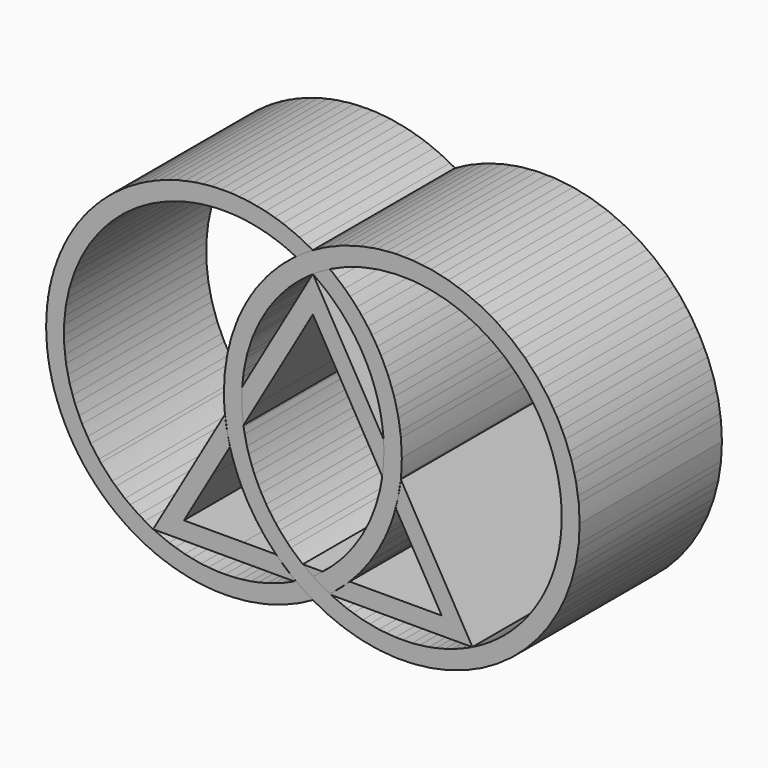
from build123d import *

# Parameters (mm, degrees)
F1_DEPTH = 10
F2_R     = 10
F2_R_2   = 9
F3_DEPTH = 10
F4_R     = 10
F4_R_2   = 9
F5_DEPTH = 10


with BuildPart() as f1:
    # F0 (on Front) → F1 (new body)
    with BuildSketch(Plane.XZ):
        with BuildLine():
            ThreePointArc((0, 8.6602540378), (0.4838541491, 8.3622570919), (0.95, 8.0372569948))
            ThreePointArc((0.95, 8.0372569948), (9.7196398168, 7.6632238647), (14, 0))
            ThreePointArc((14, 0), (12.6424014311, -4.7532831144), (8.9791776966, -8.0725550391))
            ThreePointArc((8.9791776966, -8.0725550391), (4.9997397328, -8.9999999962), (1.0203554164, -8.0723248813))
            Line((1.0203554164, -8.0723248813), (0.9023407315, -8.0723214684))
            ThreePointArc((0.9023407315, -8.0723214684), (0.4590909988, -8.3784440958), (0, -8.6602540378))
            ThreePointArc((0, -8.6602540378), (10, -8.6602540378), (15, 0))
            ThreePointArc((15, 0), (10, 8.6602540378), (0, 8.6602540378))
        make_face()
    extrude(amount=F1_DEPTH)


with BuildPart() as f1b:
    # F0 (on Front) → F1, piece 2 (new body)
    with BuildSketch(Plane.XZ):
        with BuildLine():
            ThreePointArc((-8.9802311497, -8.0720356785), (-13.054721878, 4.015153231), (-0.95, 8.0372569948))
            ThreePointArc((-0.95, 8.0372569948), (-0.4838541491, 8.3622570919), (0, 8.6602540378))
            ThreePointArc((0, 8.6602540378), (-15, 0), (0, -8.6602540378))
            ThreePointArc((0, -8.6602540378), (-0.4591280413, -8.3784199602), (-0.9024121095, -8.0722692775))
            Line((-0.9024121095, -8.0722692775), (-1.0202357206, -8.0722658703))
            ThreePointArc((-1.0202357206, -8.0722658703), (-5.0002602672, -8.9999999962), (-8.9802311497, -8.0720356785))
        make_face()
    extrude(amount=F1_DEPTH)


with BuildPart() as f1c:
    # F0 (on Front) → F1, piece 3 (new body)
    with BuildSketch(Plane.XZ):
        with BuildLine():
            Line((-5.6211760394, -4.2536667951), (-4.6593928686, -2.5876880434))
            ThreePointArc((-4.6593928686, -2.5876880434), (-4.8296923359, -1.8377019841), (-4.9418510408, -1.0768462669))
            Line((-4.9418510408, -1.0768462669), (-8.9802311497, -8.0720356785))
            Line((-8.9802311497, -8.0720356785), (-1.0202357206, -8.0722658703))
            ThreePointArc((-1.0202357206, -8.0722658703), (-0.9850797018, -8.0548379871), (-0.95, -8.0372569948))
            ThreePointArc((-0.95, -8.0372569948), (-1.5280203219, -7.5752855178), (-2.0702980916, -7.0718374484))
            Line((-2.0702980916, -7.0718374484), (-3.9045057144, -7.0717844057))
            Line((-3.9045057144, -7.0717844057), (-7.2480984047, -7.0717844057))
            Line((-7.2480984047, -7.0717844057), (-5.6211760394, -4.2536667951))
        make_face()
    extrude(amount=F1_DEPTH)


with BuildPart() as f1d:
    # F0 (on Front) → F1, piece 4 (new body)
    with BuildSketch(Plane.XZ):
        with BuildLine():
            Line((-4, 0), (-3.1654993788, 0))
            Line((-3.1654993788, 0), (-6.52584e-05, 5.4830923897))
            Line((-6.52584e-05, 5.4830923897), (3.1648918599, 0))
            Line((3.1648918599, 0), (4, 0))
            ThreePointArc((4, 0), (3.9952123452, 0.2935214892), (3.9808544745, 0.5867306941))
            Line((3.9808544745, 0.5867306941), (0, 7.4833147735))
            Line((0, 7.4833147735), (-3.9807778283, 0.5879027113))
            ThreePointArc((-3.9807778283, 0.5879027113), (-3.9951931734, 0.2941084365), (-4, 0))
        make_face()
        with BuildLine():
            Line((-3.9077024465, -1.2856271329), (-3.1654993788, 0))
            Line((-3.1654993788, 0), (-4, 0))
            ThreePointArc((-4, 0), (-3.9768959562, -0.6444679905), (-3.9077024465, -1.2856271329))
        make_face()
        with BuildLine():
            Line((4, 0), (3.1648918599, 0))
            Line((3.1648918599, 0), (3.9075585107, -1.2866240234))
            ThreePointArc((3.9075585107, -1.2866240234), (3.9768598796, -0.6449703107), (4, 0))
        make_face()
    extrude(amount=F1_DEPTH)


with BuildPart() as f1e:
    # F0 (on Front) → F1, piece 5 (new body)
    with BuildSketch(Plane.XZ):
        with BuildLine():
            Line((-5, 0), (-4.320178876, 0))
            Line((-4.320178876, 0), (-3.9807778283, 0.5879027113))
            ThreePointArc((-3.9807778283, 0.5879027113), (-2.794370664, 4.4997539879), (0, 7.4833147735))
            ThreePointArc((0, 7.4833147735), (-0.4665313505, 7.7748094513), (-0.95, 8.0372569948))
            ThreePointArc((-0.95, 8.0372569948), (-3.9302855497, 4.5), (-5, 0))
        make_face()
        with BuildLine():
            Line((-4.9418510408, -1.0768462669), (-4.320178876, 0))
            Line((-4.320178876, 0), (-5, 0))
            ThreePointArc((-5, 0), (-4.9854521782, -0.539207563), (-4.9418510408, -1.0768462669))
        make_face()
    extrude(amount=F1_DEPTH)


with BuildPart() as f1f:
    # F0 (on Front) → F1, piece 6 (new body)
    with BuildSketch(Plane.XZ):
        with BuildLine():
            ThreePointArc((0, 7.4833147735), (2.7946642616, 4.4992453867), (3.9808544745, 0.5867306941))
            Line((3.9808544745, 0.5867306941), (4.3195278644, 0))
            Line((4.3195278644, 0), (5, 0))
            ThreePointArc((5, 0), (3.9302855497, 4.5), (0.95, 8.0372569948))
            ThreePointArc((0.95, 8.0372569948), (0.4665313505, 7.7748094513), (0, 7.4833147735))
        make_face()
        with BuildLine():
            Line((5, 0), (4.3195278644, 0))
            Line((4.3195278644, 0), (4.9417333291, -1.0779324713))
            ThreePointArc((4.9417333291, -1.0779324713), (4.9854227074, -0.5397530495), (5, 0))
        make_face()
    extrude(amount=F1_DEPTH)


with BuildPart() as f1g:
    # F0 (on Front) → F1, piece 7 (new body)
    with BuildSketch(Plane.XZ):
        with BuildLine():
            ThreePointArc((-0.5667315474, -7.0718809294), (-2.7940678153, -4.5002785347), (-3.9077024465, -1.2856271329))
            Line((-3.9077024465, -1.2856271329), (-4.6593928686, -2.5876880434))
            ThreePointArc((-4.6593928686, -2.5876880434), (-3.6601119437, -5.0002461062), (-2.0702980916, -7.0718374484))
            Line((-2.0702980916, -7.0718374484), (-0.5667315474, -7.0718809294))
        make_face()
    extrude(amount=F1_DEPTH)


with BuildPart() as f1h:
    # F0 (on Front) → F1, piece 8 (new body)
    with BuildSketch(Plane.XZ):
        with BuildLine():
            Line((4.6591288943, -2.5886732129), (3.9075585107, -1.2866240234))
            ThreePointArc((3.9075585107, -1.2866240234), (2.7938027304, -4.5007376063), (0.5666899079, -7.0719137063))
            Line((0.5666899079, -7.0719137063), (2.0701783268, -7.0719571851))
            ThreePointArc((2.0701783268, -7.0719571851), (3.6598145949, -5.0007610603), (4.6591288943, -2.5886732129))
        make_face()
    extrude(amount=F1_DEPTH)


with BuildPart() as f1i:
    # F0 (on Front) → F1, piece 9 (new body)
    with BuildSketch(Plane.XZ):
        with BuildLine():
            ThreePointArc((4.9417333291, -1.0779324713), (4.829498175, -1.8387402284), (4.6591288943, -2.5886732129))
            Line((4.6591288943, -2.5886732129), (5.2371193526, -3.5900059213))
            Line((5.2371193526, -3.5900059213), (7.2470618219, -7.0721068932))
            Line((7.2470618219, -7.0721068932), (2.0701783268, -7.0719571851))
            ThreePointArc((2.0701783268, -7.0719571851), (1.5279561768, -7.5753407946), (0.95, -8.0372569948))
            ThreePointArc((0.95, -8.0372569948), (0.9851394204, -8.0548677535), (1.0203554164, -8.0723248813))
            Line((1.0203554164, -8.0723248813), (8.9791776966, -8.0725550391))
            Line((8.9791776966, -8.0725550391), (4.9417333291, -1.0779324713))
        make_face()
    extrude(amount=F1_DEPTH)


with BuildPart() as f1j:
    # F0 (on Front) → F1, piece 10 (new body)
    with BuildSketch(Plane.XZ):
        with BuildLine():
            Line((0.5666899079, -7.0719137063), (-0.5667315474, -7.0718809294))
            ThreePointArc((-0.5667315474, -7.0718809294), (-0.2873692278, -7.2831124287), (0, -7.4833147735))
            ThreePointArc((0, -7.4833147735), (0.2873477862, -7.2831279948), (0.5666899079, -7.0719137063))
        make_face()
    extrude(amount=F1_DEPTH)


with BuildPart() as f1k:
    # F0 (on Front) → F1, piece 11 (new body)
    with BuildSketch(Plane.XZ):
        with BuildLine():
            ThreePointArc((0.95, -8.0372569948), (0.4665313505, -7.7748094513), (0, -7.4833147735))
            ThreePointArc((0, -7.4833147735), (-0.4665313505, -7.7748094513), (-0.95, -8.0372569948))
            ThreePointArc((-0.95, -8.0372569948), (-0.9262319115, -8.05479828), (-0.9024121095, -8.0722692775))
            Line((-0.9024121095, -8.0722692775), (0.9023407315, -8.0723214684))
            ThreePointArc((0.9023407315, -8.0723214684), (0.9261962997, -8.0548244808), (0.95, -8.0372569948))
        make_face()
    extrude(amount=F1_DEPTH)


with BuildPart() as f3:
    # F2 (on face) → F3 (new body)
    with BuildSketch(Plane.XZ.offset(10)):
        with Locations((-5, 0)):
            Circle(F2_R)
        with Locations((-5, 0)):
            Circle(F2_R_2, mode=Mode.SUBTRACT)
    extrude(amount=-F3_DEPTH)


with BuildPart() as f5:
    # F4 (on face) → F5 (new body)
    with BuildSketch(Plane.XZ.offset(10)):
        with Locations((5, 0)):
            Circle(F4_R)
        with Locations((5, 0)):
            Circle(F4_R_2, mode=Mode.SUBTRACT)
    extrude(amount=-F5_DEPTH)


solid = Compound([f1.part, f1b.part, f1c.part, f1d.part, f1e.part, f1f.part, f1g.part, f1h.part, f1i.part, f1j.part, f1k.part, f3.part, f5.part])
